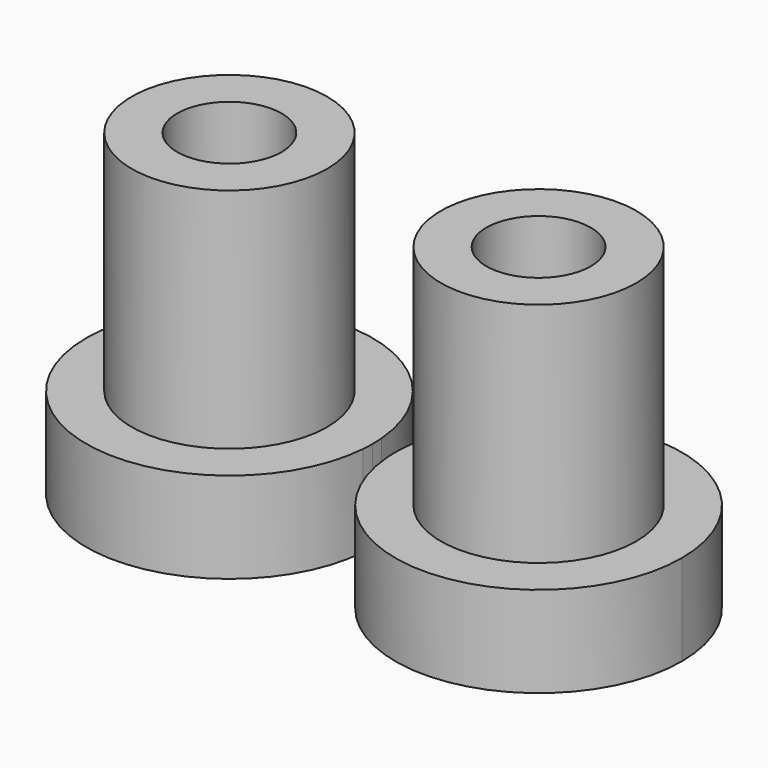
from build123d import *

# Parameters (mm, degrees)
F0_R     = 2.15
F0_R_2   = 1.15
F1_DEPTH = 7
F2_DEPTH = 2
F3_DEPTH = 0.5


with BuildPart() as f1:
    # F0 (on Top) → F1 (new body)
    with BuildSketch(Plane.XY):
        with Locations((-25.0254408006, 19.4505679031)):
            Circle(F0_R)
        with Locations((-25.0254408006, 19.4505679031)):
            Circle(F0_R_2, mode=Mode.SUBTRACT)
    extrude(amount=F1_DEPTH)

    # F0 (on Top) → F2 (join)
    with BuildSketch(Plane.XY):
        with BuildLine():
            ThreePointArc((-21.8856664985, 19.1969592827), (-21.8779982633, 19.3236605577), (-21.8754408006, 19.4505679031))
            ThreePointArc((-21.8754408006, 19.4505679031), (-21.8779982633, 19.5774752484), (-21.8856664985, 19.7041765234))
            ThreePointArc((-21.8856664985, 19.7041765234), (-28.1754408006, 19.4505679031), (-21.8856664985, 19.1969592827))
        make_face()
        with Locations((-25.0254408006, 19.4505679031)):
            Circle(F0_R, mode=Mode.SUBTRACT)
        with Locations((-25.0254408006, 19.4505679031)):
            Circle(F0_R_2)
    extrude(amount=F2_DEPTH)



with BuildPart() as f1b:
    # F0 (on Top) → F1, piece 2 (new body)
    with BuildSketch(Plane.XY):
        with Locations((-18.2254408006, 19.4505679031)):
            Circle(F0_R)
        with Locations((-18.2254408006, 19.4505679031)):
            Circle(F0_R_2, mode=Mode.SUBTRACT)
    extrude(amount=F1_DEPTH)

    # F0 (on Top) → F2, piece 2 (join)
    with BuildSketch(Plane.XY):
        with BuildLine():
            ThreePointArc((-15.0754408006, 19.4505679031), (-18.0985334552, 22.5980104404), (-21.3652151026, 19.7041765234))
            ThreePointArc((-21.3652151026, 19.7041765234), (-21.3754408006, 19.4505679031), (-21.3652151026, 19.1969592827))
            ThreePointArc((-21.3652151026, 19.1969592827), (-18.0985334552, 16.3031253657), (-15.0754408006, 19.4505679031))
        make_face()
        with Locations((-18.2254408006, 19.4505679031)):
            Circle(F0_R, mode=Mode.SUBTRACT)
        with Locations((-18.2254408006, 19.4505679031)):
            Circle(F0_R_2)
    extrude(amount=F2_DEPTH)


with BuildPart() as f1_1:
    add(f1.part)

    add(f1b.part)  # F3 merges F1b
    # F0 (on Top) → F3 (join)
    with BuildSketch(Plane.XY):
        with BuildLine():
            ThreePointArc((-21.8856664985, 19.7041765234), (-21.8779982633, 19.5774752484), (-21.8754408006, 19.4505679031))
            ThreePointArc((-21.8754408006, 19.4505679031), (-21.8779982633, 19.3236605577), (-21.8856664985, 19.1969592827))
            Line((-21.8856664985, 19.1969592827), (-21.3652151026, 19.1969592827))
            ThreePointArc((-21.3652151026, 19.1969592827), (-21.3754408006, 19.4505679031), (-21.3652151026, 19.7041765234))
            Line((-21.3652151026, 19.7041765234), (-21.8856664985, 19.7041765234))
        make_face()
    extrude(amount=F3_DEPTH)


solid = f1_1.part
